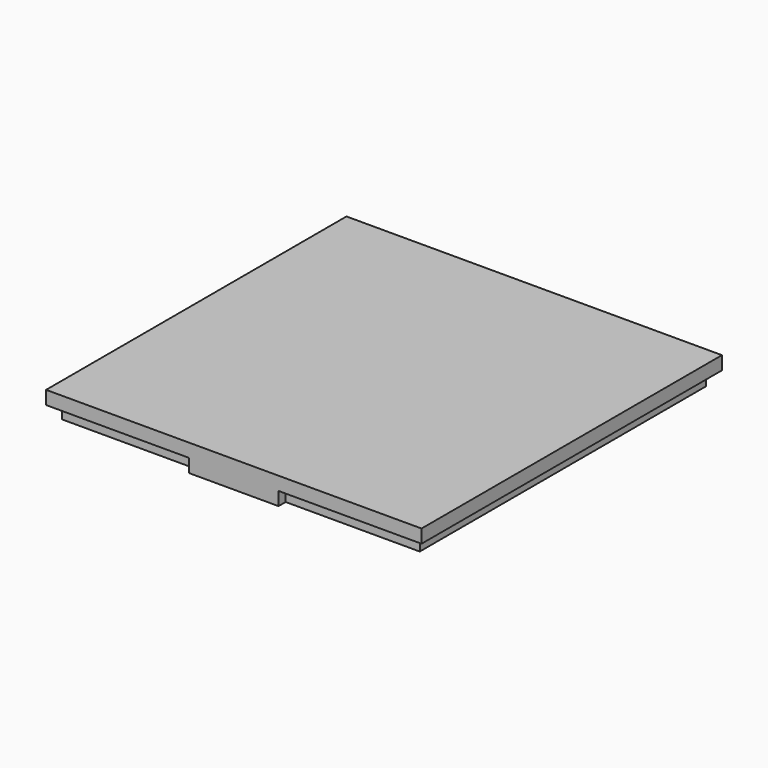
from build123d import *

# Parameters (mm, degrees)
SKETCH_W        = 42
SKETCH_H        = 42
PAD_DEPTH       = 30
SKETCH001_W     = 40
SKETCH001_H     = 40
POCKET_DEPTH    = 1.5
SKETCH002_W     = 38
SKETCH002_H     = 38
POCKET001_DEPTH = 28
SKETCH003_W     = 10
SKETCH003_H     = 5
POCKET002_DEPTH = 300
SKETCH004_W     = 42
SKETCH004_H     = 42
PAD001_DEPTH    = 1.5


with BuildPart() as pocket002:
    # Sketch → Pad (new body)
    with BuildSketch(Plane.XY):
        Rectangle(SKETCH_W, SKETCH_H)
    extrude(amount=PAD_DEPTH)

    # Sketch001 → Pocket (cut)
    with BuildSketch(Plane.XY.offset(30)):
        Rectangle(SKETCH001_W, SKETCH001_H)
    extrude(amount=-POCKET_DEPTH, mode=Mode.SUBTRACT)

    # Sketch002 → Pocket001 (cut)
    with BuildSketch(Plane.XY.offset(28.5)):
        Rectangle(SKETCH002_W, SKETCH002_H)
    extrude(amount=-POCKET001_DEPTH, mode=Mode.SUBTRACT)

    # Sketch003 → Pocket002 (cut)
    with BuildSketch(Plane.XZ.offset(21)):
        with Locations((0, 27.5)):
            Rectangle(SKETCH003_W, SKETCH003_H)
    extrude(amount=-POCKET002_DEPTH, mode=Mode.SUBTRACT)


with BuildPart() as cut:
    # Pad001 base: copy of Pocket002
    add(pocket002.part)

    # Sketch004 → Pad001 (new body, symmetric)
    with BuildSketch(Plane.XY.offset(30)):
        Rectangle(SKETCH004_W, SKETCH004_H)
    extrude(amount=PAD001_DEPTH, both=True)

    # Cut: cut Pocket002
    add(pocket002.part, mode=Mode.SUBTRACT)


solid = cut.part
